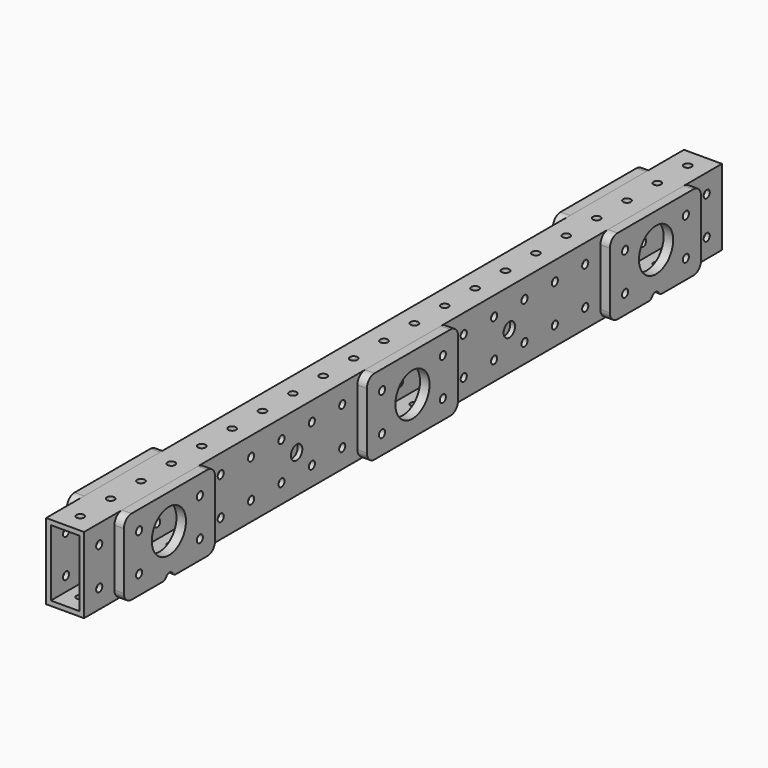
from build123d import *

# Parameters (mm, degrees)
F0_W          = 533.4
F0_H          = 50.8
F0_R          = 2.5527
F0_R_2        = 20.6375
F1_DEPTH      = 12.7
F1_DEPTH_BACK = 12.7
F2_W          = 19.05
F2_H          = 44.45
F3_DEPTH      = 533.401
F4_R          = 2.5527
F5_DEPTH      = 50.801
F6_R          = 2.5527
F6_R_2        = 14.2875
F7_DEPTH      = 6.35
F9_R          = 4.7625
F10_DEPTH     = 3.175
F11_R         = 4.7625
F12_DEPTH     = 3.175


with BuildPart() as f1:
    # F0 (on Right) → F1 (new body, two sides)
    with BuildSketch(Plane.YZ) as f1_sk:
        Rectangle(F0_W, F0_H)
        with Locations((-254, -12.7)):
            Circle(F0_R, mode=Mode.SUBTRACT)
        with Locations((-228.6, -12.7)):
            Circle(F0_R, mode=Mode.SUBTRACT)
        with Locations((-177.8, -12.7)):
            Circle(F0_R, mode=Mode.SUBTRACT)
        with Locations((-152.4, -12.7)):
            Circle(F0_R, mode=Mode.SUBTRACT)
        with Locations((-127, -12.7)):
            Circle(F0_R, mode=Mode.SUBTRACT)
        with Locations((-101.6, -12.7)):
            Circle(F0_R, mode=Mode.SUBTRACT)
        with Locations((-76.2, -12.7)):
            Circle(F0_R, mode=Mode.SUBTRACT)
        with Locations((-50.8, -12.7)):
            Circle(F0_R, mode=Mode.SUBTRACT)
        with Locations((-25.4, -12.7)):
            Circle(F0_R, mode=Mode.SUBTRACT)
        with Locations((-203.2, 0)):
            Circle(F0_R_2, mode=Mode.SUBTRACT)
        with Locations((-88.9, 0)):
            Circle(F0_R, mode=Mode.SUBTRACT)
        with Locations((25.4, -12.7)):
            Circle(F0_R, mode=Mode.SUBTRACT)
        with Locations((50.8, -12.7)):
            Circle(F0_R, mode=Mode.SUBTRACT)
        with Locations((76.2, -12.7)):
            Circle(F0_R, mode=Mode.SUBTRACT)
        with Locations((101.6, -12.7)):
            Circle(F0_R, mode=Mode.SUBTRACT)
        with Locations((127, -12.7)):
            Circle(F0_R, mode=Mode.SUBTRACT)
        with Locations((152.4, -12.7)):
            Circle(F0_R, mode=Mode.SUBTRACT)
        with Locations((177.8, -12.7)):
            Circle(F0_R, mode=Mode.SUBTRACT)
        with Locations((228.6, -12.7)):
            Circle(F0_R, mode=Mode.SUBTRACT)
        with Locations((254, -12.7)):
            Circle(F0_R, mode=Mode.SUBTRACT)
        Circle(F0_R_2, mode=Mode.SUBTRACT)
        with Locations((88.9, 0)):
            Circle(F0_R, mode=Mode.SUBTRACT)
        with Locations((203.2, 0)):
            Circle(F0_R_2, mode=Mode.SUBTRACT)
        with Locations((-254, 12.7)):
            Circle(F0_R, mode=Mode.SUBTRACT)
        with Locations((-228.6, 12.7)):
            Circle(F0_R, mode=Mode.SUBTRACT)
        with Locations((-177.8, 12.7)):
            Circle(F0_R, mode=Mode.SUBTRACT)
        with Locations((-152.4, 12.7)):
            Circle(F0_R, mode=Mode.SUBTRACT)
        with Locations((-127, 12.7)):
            Circle(F0_R, mode=Mode.SUBTRACT)
        with Locations((-101.6, 12.7)):
            Circle(F0_R, mode=Mode.SUBTRACT)
        with Locations((-76.2, 12.7)):
            Circle(F0_R, mode=Mode.SUBTRACT)
        with Locations((-50.8, 12.7)):
            Circle(F0_R, mode=Mode.SUBTRACT)
        with Locations((-25.4, 12.7)):
            Circle(F0_R, mode=Mode.SUBTRACT)
        with Locations((25.4, 12.7)):
            Circle(F0_R, mode=Mode.SUBTRACT)
        with Locations((50.8, 12.7)):
            Circle(F0_R, mode=Mode.SUBTRACT)
        with Locations((76.2, 12.7)):
            Circle(F0_R, mode=Mode.SUBTRACT)
        with Locations((101.6, 12.7)):
            Circle(F0_R, mode=Mode.SUBTRACT)
        with Locations((127, 12.7)):
            Circle(F0_R, mode=Mode.SUBTRACT)
        with Locations((152.4, 12.7)):
            Circle(F0_R, mode=Mode.SUBTRACT)
        with Locations((177.8, 12.7)):
            Circle(F0_R, mode=Mode.SUBTRACT)
        with Locations((228.6, 12.7)):
            Circle(F0_R, mode=Mode.SUBTRACT)
        with Locations((254, 12.7)):
            Circle(F0_R, mode=Mode.SUBTRACT)
    extrude(amount=F1_DEPTH)
    extrude(f1_sk.sketch, amount=-F1_DEPTH_BACK)

    # F2 (on face) → F3 (cut, through all)
    with BuildSketch(Plane.XZ.offset(266.7)):
        Rectangle(F2_W, F2_H)
    extrude(amount=-F3_DEPTH, mode=Mode.SUBTRACT)

    # F4 (on face) → F5 (cut, through all)
    with BuildSketch(Plane.XY.offset(25.4)):
        with Locations((0, 254)):
            Circle(F4_R)
        with Locations((0, 228.6)):
            Circle(F4_R)
        with Locations((0, 203.2)):
            Circle(F4_R)
        with Locations((0, 177.8)):
            Circle(F4_R)
        with Locations((0, 152.4)):
            Circle(F4_R)
        with Locations((0, 127)):
            Circle(F4_R)
        with Locations((0, 101.6)):
            Circle(F4_R)
        with Locations((0, 76.2)):
            Circle(F4_R)
        with Locations((0, 50.8)):
            Circle(F4_R)
        with Locations((0, 25.4)):
            Circle(F4_R)
        Circle(F4_R)
        with Locations((0, -25.4)):
            Circle(F4_R)
        with Locations((0, -50.8)):
            Circle(F4_R)
        with Locations((0, -76.2)):
            Circle(F4_R)
        with Locations((0, -101.6)):
            Circle(F4_R)
        with Locations((0, -127)):
            Circle(F4_R)
        with Locations((0, -152.4)):
            Circle(F4_R)
        with Locations((0, -177.8)):
            Circle(F4_R)
        with Locations((0, -203.2)):
            Circle(F4_R)
        with Locations((0, -228.6)):
            Circle(F4_R)
        with Locations((0, -254)):
            Circle(F4_R)
    extrude(amount=-F5_DEPTH, mode=Mode.SUBTRACT)

    # F9 (on face) → F10 (cut)
    with BuildSketch(Plane.YZ.offset(12.7)):
        with Locations((-88.9, 0)):
            Circle(F9_R)
        with Locations((88.9, 0)):
            Circle(F9_R)
    extrude(amount=-F10_DEPTH, mode=Mode.SUBTRACT)

    # F11 (on face) → F12 (cut)
    with BuildSketch(Plane(origin=(-12.7, 0, 0), x_dir=(0, -1, 0), z_dir=(-1, 0, 0))):
        with Locations((-127, 12.7)):
            Circle(F11_R)
        with Locations((-127, -12.7)):
            Circle(F11_R)
        with Locations((127, 12.7)):
            Circle(F11_R)
        with Locations((127, -12.7)):
            Circle(F11_R)
    extrude(amount=-F12_DEPTH, mode=Mode.SUBTRACT)


with BuildPart() as f7:
    # F6 (on face) → F7 (new body)
    with BuildSketch(Plane.YZ.offset(12.7)):
        with BuildLine():
            Line((31.75, 25.4), (-31.75, 25.4))
            ThreePointArc((-31.75, 25.4), (-36.2401280605, 23.5401280605), (-38.1, 19.05))
            Line((-38.1, 19.05), (-38.1, -19.05))
            ThreePointArc((-38.1, -19.05), (-36.2401280605, -23.5401280605), (-31.75, -25.4))
            Line((-31.75, -25.4), (31.75, -25.4))
            ThreePointArc((31.75, -25.4), (36.2401280605, -23.5401280605), (38.1, -19.05))
            Line((38.1, -19.05), (38.1, 19.05))
            ThreePointArc((38.1, 19.05), (36.2401280605, 23.5401280605), (31.75, 25.4))
        make_face()
        with Locations((-25.4, -12.7)):
            Circle(F6_R, mode=Mode.SUBTRACT)
        with Locations((25.4, -12.7)):
            Circle(F6_R, mode=Mode.SUBTRACT)
        with Locations((-25.4, 12.7)):
            Circle(F6_R, mode=Mode.SUBTRACT)
        Circle(F6_R_2, mode=Mode.SUBTRACT)
        with Locations((25.4, 12.7)):
            Circle(F6_R, mode=Mode.SUBTRACT)
    extrude(amount=F7_DEPTH)


with BuildPart() as f7b:
    # F6 (on face) → F7, piece 2 (new body)
    with BuildSketch(Plane.YZ.offset(12.7)):
        with BuildLine():
            ThreePointArc((-165.1, 19.05), (-166.9598719395, 23.5401280605), (-171.45, 25.4))
            Line((-171.45, 25.4), (-234.95, 25.4))
            ThreePointArc((-234.95, 25.4), (-239.4401280605, 23.5401280605), (-241.3, 19.05))
            Line((-241.3, 19.05), (-241.3, -19.05))
            ThreePointArc((-241.3, -19.05), (-239.4401280605, -23.5401280605), (-234.95, -25.4))
            Line((-234.95, -25.4), (-208.699261314, -25.4))
            ThreePointArc((-208.699261314, -25.4), (-207.111761314, -24.974630657), (-205.949630657, -23.8125))
            ThreePointArc((-205.949630657, -23.8125), (-203.2, -22.225), (-200.450369343, -23.8125))
            ThreePointArc((-200.450369343, -23.8125), (-199.288238686, -24.974630657), (-197.700738686, -25.4))
            Line((-197.700738686, -25.4), (-171.45, -25.4))
            ThreePointArc((-171.45, -25.4), (-166.9598719395, -23.5401280605), (-165.1, -19.05))
            Line((-165.1, -19.05), (-165.1, 19.05))
        make_face()
        with Locations((-228.6, -12.7)):
            Circle(F6_R, mode=Mode.SUBTRACT)
        with Locations((-177.8, -12.7)):
            Circle(F6_R, mode=Mode.SUBTRACT)
        with Locations((-203.6940816824, 2.38125)):
            Circle(F6_R_2, mode=Mode.SUBTRACT)
        with Locations((-228.6, 12.7)):
            Circle(F6_R, mode=Mode.SUBTRACT)
        with Locations((-177.8, 12.7)):
            Circle(F6_R, mode=Mode.SUBTRACT)
    extrude(amount=F7_DEPTH)


with BuildPart() as f7c:
    # F6 (on face) → F7, piece 3 (new body)
    with BuildSketch(Plane.YZ.offset(12.7)):
        with BuildLine():
            ThreePointArc((197.700738686, -25.4), (199.288238686, -24.974630657), (200.450369343, -23.8125))
            ThreePointArc((200.450369343, -23.8125), (203.2, -22.225), (205.949630657, -23.8125))
            ThreePointArc((205.949630657, -23.8125), (207.111761314, -24.974630657), (208.699261314, -25.4))
            Line((208.699261314, -25.4), (234.95, -25.4))
            ThreePointArc((234.95, -25.4), (239.4401280605, -23.5401280605), (241.3, -19.05))
            Line((241.3, -19.05), (241.3, 19.05))
            ThreePointArc((241.3, 19.05), (239.4401280605, 23.5401280605), (234.95, 25.4))
            Line((234.95, 25.4), (171.45, 25.4))
            ThreePointArc((171.45, 25.4), (166.9598719395, 23.5401280605), (165.1, 19.05))
            Line((165.1, 19.05), (165.1, -19.05))
            ThreePointArc((165.1, -19.05), (166.9598719395, -23.5401280605), (171.45, -25.4))
            Line((171.45, -25.4), (197.700738686, -25.4))
        make_face()
        with Locations((177.8, -12.7)):
            Circle(F6_R, mode=Mode.SUBTRACT)
        with Locations((228.6, -12.7)):
            Circle(F6_R, mode=Mode.SUBTRACT)
        with Locations((203.6940816824, 2.38125)):
            Circle(F6_R_2, mode=Mode.SUBTRACT)
        with Locations((177.8, 12.7)):
            Circle(F6_R, mode=Mode.SUBTRACT)
        with Locations((228.6, 12.7)):
            Circle(F6_R, mode=Mode.SUBTRACT)
    extrude(amount=F7_DEPTH)


with BuildPart() as f8_1:
    # F8: instance of F7b
    add(f7b.part.mirror(Plane.YZ))


with BuildPart() as f8_2:
    # F8: instance of F7c
    add(f7c.part.mirror(Plane.YZ))


solid = Compound([f1.part, f7.part, f7b.part, f7c.part, f8_1.part, f8_2.part])
